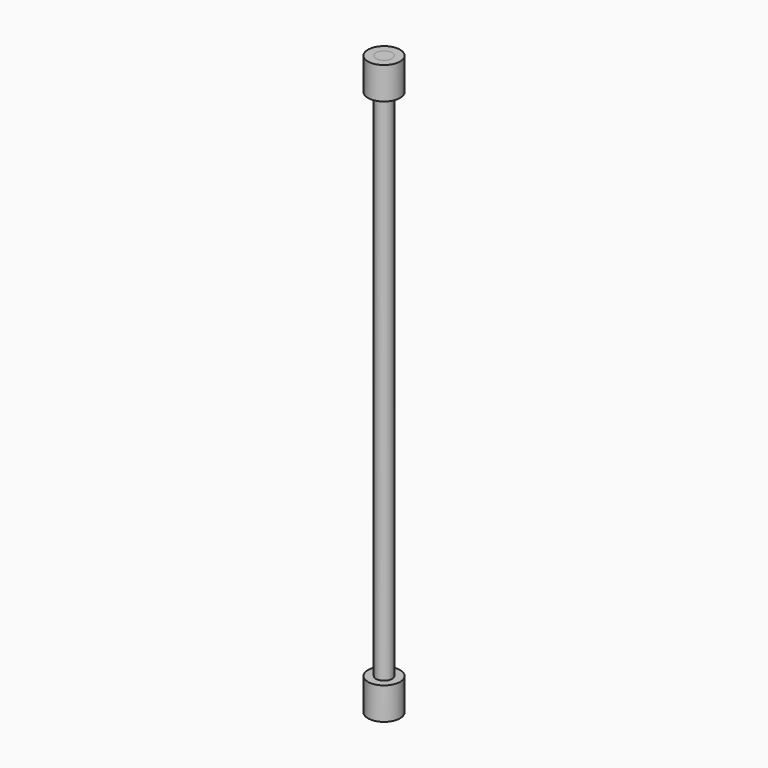
from build123d import *

# Parameters (mm, degrees)
F0_R     = 12.7
F1_DEPTH = 914.4
F2_R     = 25.4
F2_R_2   = 12.7
F3_DEPTH = 50.8
F4_R     = 25.4
F4_R_2   = 12.7
F5_DEPTH = 50.8


with BuildPart() as f1:
    # F0 (on Top) → F1 (new body)
    with BuildSketch(Plane.XY):
        Circle(F0_R)
    extrude(amount=F1_DEPTH)


with BuildPart() as f3:
    # F2 (on face) → F3 (new body)
    with BuildSketch(Plane(origin=(0, 0, 0), x_dir=(1, 0, 0), z_dir=(0, 0, -1))):
        Circle(F2_R)
        Circle(F2_R_2, mode=Mode.SUBTRACT)
    extrude(amount=-F3_DEPTH)


with BuildPart() as f5:
    # F4 (on face) → F5 (new body)
    with BuildSketch(Plane.XY.offset(914.4)):
        Circle(F4_R)
        Circle(F4_R_2, mode=Mode.SUBTRACT)
    extrude(amount=-F5_DEPTH)


solid = Compound([f1.part, f3.part, f5.part])
